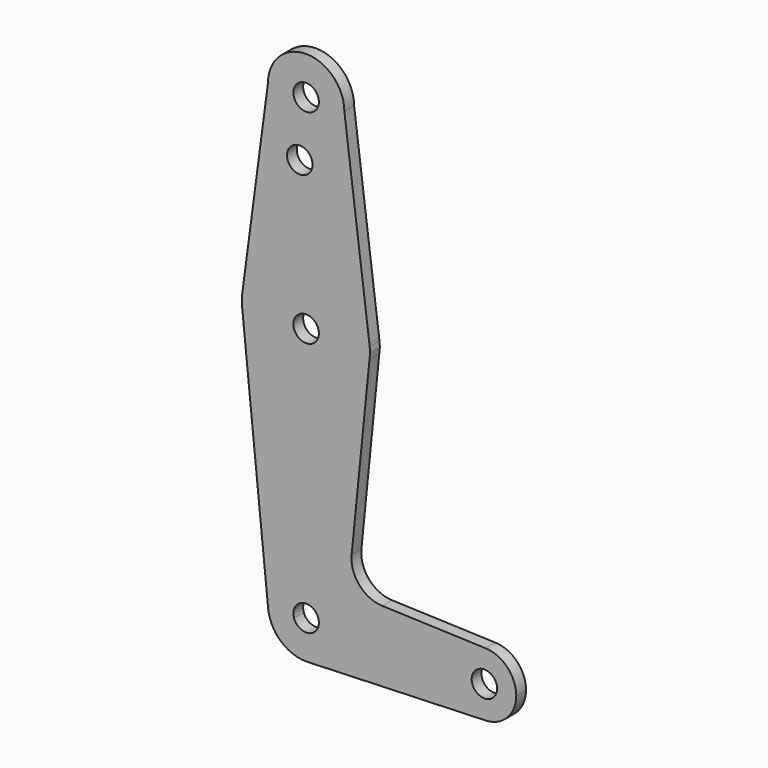
from build123d import *

# Parameters (mm, degrees)
F0_R     = 3.175
F1_DEPTH = 3.048


with BuildPart() as f1:
    # F0 (on Front) → F1 (new body)
    with BuildSketch(Plane.XZ):
        with BuildLine():
            ThreePointArc((-9.525, 50.8), (0, 41.275), (9.525, 50.8))
            ThreePointArc((9.525, 50.8), (0, 60.325), (-9.525, 50.8))
        make_face()
        with Locations((0, 50.8)):
            Circle(F0_R, mode=Mode.SUBTRACT)
        with BuildLine():
            Line((15.7474569047, 2.0082893304), (9.525, 50.8))
            ThreePointArc((9.525, 50.8), (0, 41.275), (-9.525, 50.8))
            Line((-9.525, 50.8), (-16.0005014642, 2.0082893304))
            Line((-16.0005014642, 2.0082893304), (-16.0005014642, 0))
            Line((-16.0005014642, 0), (-9.4765870308, -64.4591262939))
            ThreePointArc((-9.4765870308, -64.4591262939), (-0.480173683, -53.9871109418), (9.525, -63.5))
            ThreePointArc((9.525, -63.5), (9.5128890582, -63.980173683), (9.4765870308, -64.4591262939))
            ThreePointArc((9.4765870308, -64.4591262939), (6.6344547895, -70.3344447211), (0.6773435479, -73.000885786))
            Line((0.6773435479, -73.000885786), (44.7324052746, -71.4324746146))
            ThreePointArc((44.7324052746, -71.4324746146), (36.5125, -63.5), (44.7324052746, -55.5675253854))
            Line((44.7324052746, -55.5675253854), (18.9683262242, -54.6502943609))
            ThreePointArc((18.9683262242, -54.6502943609), (13.2612022424, -51.9325369353), (11.340834254, -45.9101074955))
            Line((11.340834254, -45.9101074955), (15.7954255475, -1.5875001652))
            ThreePointArc((15.7954255475, -1.5875001652), (-15.8735876182, -0.2117572385), (15.7474569047, 2.0082893304))
        make_face()
        with Locations((-1.5875, 36.5252)):
            Circle(F0_R, mode=Mode.SUBTRACT)
        with BuildLine():
            Line((15.8253815577, 1.2541624904), (15.7474569047, 2.0082893304))
            ThreePointArc((15.7474569047, 2.0082893304), (-15.8735876182, -0.2117572385), (15.7954255475, -1.5875001652))
            ThreePointArc((15.7954255475, -1.5875001652), (15.8550939065, -0.794746637), (15.875, 0))
            ThreePointArc((15.875, 0), (15.8625905392, 0.627571817), (15.8253815577, 1.2541624904))
        make_face()
        Circle(F0_R, mode=Mode.SUBTRACT)
        with BuildLine():
            ThreePointArc((15.8253815577, 1.2541624904), (15.7909217263, 1.6316911575), (15.7474569047, 2.0082893304))
            Line((15.7474569047, 2.0082893304), (15.8253815577, 1.2541624904))
        make_face()
        with BuildLine():
            Line((15.9549753763, 0), (15.8253815577, 1.2541624904))
            ThreePointArc((15.8253815577, 1.2541624904), (15.8625905392, 0.627571817), (15.875, 0))
            ThreePointArc((15.875, 0), (15.8550939065, -0.794746637), (15.7954255475, -1.5875001652))
            Line((15.7954255475, -1.5875001652), (15.9549753763, 0))
        make_face()
        with BuildLine():
            Line((-3.0266651206, -64.4591262939), (-9.4765870308, -64.4591262939))
            ThreePointArc((-9.4765870308, -64.4591262939), (-6.3870942944, -70.5661624291), (0, -73.025))
            Line((0, -73.025), (0.6773435479, -73.000885786))
            ThreePointArc((0.6773435479, -73.000885786), (6.6344547895, -70.3344447211), (9.4765870308, -64.4591262939))
            Line((9.4765870308, -64.4591262939), (3.0266651206, -64.4591262939))
            ThreePointArc((3.0266651206, -64.4591262939), (0, -66.675), (-3.0266651206, -64.4591262939))
        make_face()
        with BuildLine():
            ThreePointArc((9.525, -63.5), (-0.480173683, -53.9871109418), (-9.4765870308, -64.4591262939))
            Line((-9.4765870308, -64.4591262939), (-3.0266651206, -64.4591262939))
            ThreePointArc((-3.0266651206, -64.4591262939), (-0.4852644856, -60.3623028542), (3.175, -63.5))
            ThreePointArc((3.175, -63.5), (3.1376971458, -63.9852644856), (3.0266651206, -64.4591262939))
            Line((3.0266651206, -64.4591262939), (9.4765870308, -64.4591262939))
            ThreePointArc((9.4765870308, -64.4591262939), (9.5128890582, -63.980173683), (9.525, -63.5))
        make_face()
        with BuildLine():
            Line((0.6773435479, -73.000885786), (0, -73.025))
            ThreePointArc((0, -73.025), (0.3388863295, -73.0189695375), (0.6773435479, -73.000885786))
        make_face()
        with BuildLine():
            ThreePointArc((52.3875, -63.5), (50.1616327839, -57.9880895153), (44.7324052746, -55.5675253854))
            ThreePointArc((44.7324052746, -55.5675253854), (36.5125, -63.5), (44.7324052746, -71.4324746146))
            ThreePointArc((44.7324052746, -71.4324746146), (50.1616327839, -69.0119104847), (52.3875, -63.5))
        make_face()
        with Locations((44.45, -63.5)):
            Circle(F0_R, mode=Mode.SUBTRACT)
    extrude(amount=F1_DEPTH)


solid = f1.part
